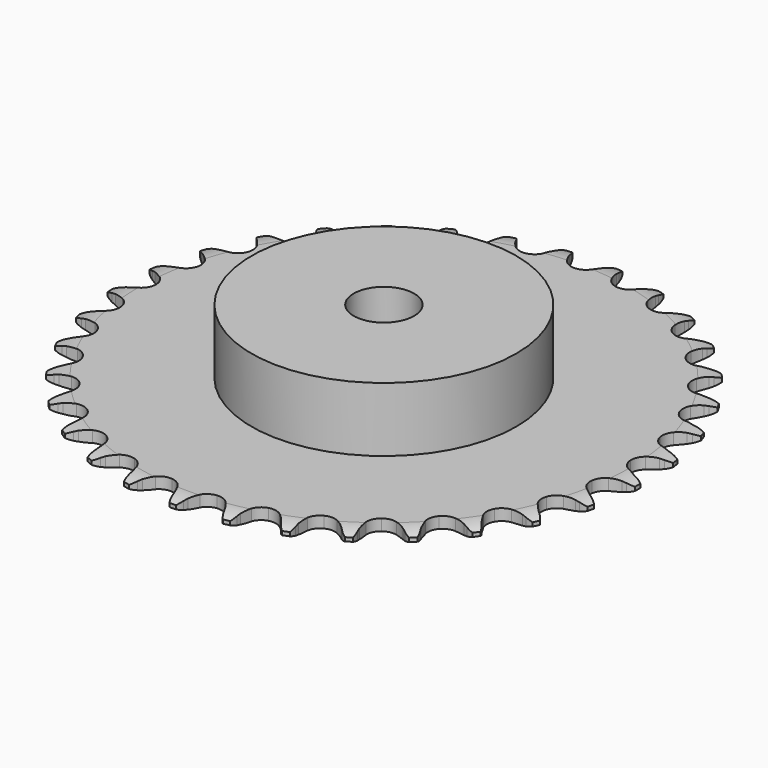
from build123d import *

# Parameters (mm, degrees)
PAD_DEPTH         = 3
SKETCH001_R       = 35
PAD001_DEPTH      = 20
SKETCH002_R       = 8
POCKET_DEPTH      = 0.001
POCKET_DEPTH_BACK = 20.001


with BuildPart() as part:
    # Sprocket → Pad (new body)
    with BuildSketch(Plane.XY):
        with BuildLine():
            ThreePointArc((-6.739751, 70.581868), (-5.654713, 69.397762), (-4.904592, 67.977644))
            Line((-4.904592, 67.977644), (-4.526513, 66.967241))
            ThreePointArc((-4.526513, 66.967241), (-3.927135, 65.657537), (-3.148108, 64.446052))
            ThreePointArc((-3.148108, 64.446052), (-1.760243, 63.286178), (0, 62.870221))
            ThreePointArc((0, 62.870221), (1.760243, 63.286178), (3.148108, 64.446052))
            ThreePointArc((3.148108, 64.446052), (3.927135, 65.657537), (4.526513, 66.967241))
            Line((4.526513, 66.967241), (4.904592, 67.977644))
            ThreePointArc((4.904592, 67.977644), (5.654713, 69.397762), (6.739751, 70.581868))
            ThreePointArc((6.739751, 70.581868), (7.581088, 69.213815), (8.048894, 67.677399))
            Line((8.048894, 67.677399), (8.22892, 66.613704))
            ThreePointArc((8.22892, 66.613704), (8.569604, 65.214235), (9.105278, 63.877211))
            ThreePointArc((9.105278, 63.877211), (10.248554, 62.475642), (11.898268, 61.734075))
            ThreePointArc((11.898268, 61.734075), (13.705422, 61.809386), (15.287714, 62.685644))
            Line((15.287714, 62.685644), (17.118347, 64.900407))
            ThreePointArc((17.118347, 64.900407), (17.387319, 65.368194), (17.680813, 65.820999))
            ThreePointArc((17.680813, 65.820999), (18.686138, 67.073492), (19.975661, 68.030855))
            ThreePointArc((19.975661, 68.030855), (20.542888, 66.528301), (20.711472, 64.931117))
            Line((20.711472, 64.931117), (20.686939, 63.852574))
            ThreePointArc((20.686939, 63.852574), (20.756615, 62.41392), (21.029575, 60.999682))
            ThreePointArc((21.029575, 60.999682), (21.886943, 59.407075), (23.366501, 58.366697))
            ThreePointArc((23.366501, 58.366697), (25.15525, 58.098642), (26.874781, 58.659614))
            Line((26.874781, 58.659614), (29.091479, 60.487904))
            ThreePointArc((29.091479, 60.487904), (29.44412, 60.896334), (29.818004, 61.285412))
            ThreePointArc((29.818004, 61.285412), (31.042197, 62.325012), (32.489599, 63.02103))
            ThreePointArc((32.489599, 63.02103), (32.762215, 61.438281), (32.625484, 59.838056))
            Line((32.625484, 59.838056), (32.397279, 58.783646))
            ThreePointArc((32.397279, 58.783646), (32.193428, 57.357804), (32.193809, 55.917465))
            ThreePointArc((32.193809, 55.917465), (32.73428, 54.19138), (33.990208, 52.889796))
            ThreePointArc((33.990208, 52.889796), (35.695902, 52.288061), (37.490524, 52.513473))
            Line((37.490524, 52.513473), (40.013169, 53.88921))
            ThreePointArc((40.013169, 53.88921), (40.436733, 54.223522), (40.877494, 54.53481))
            ThreePointArc((40.877494, 54.53481), (42.27631, 55.323944), (43.829278, 55.733461))
            ThreePointArc((43.829278, 55.733461), (43.797431, 54.127721), (43.360325, 52.582291))
            Line((43.360325, 52.582291), (42.936696, 51.590123))
            ThreePointArc((42.936696, 51.590123), (42.466687, 50.228628), (42.194475, 48.814245))
            ThreePointArc((42.194475, 48.814245), (42.398515, 47.017068), (43.38542, 45.501319))
            ThreePointArc((43.38542, 45.501319), (44.946411, 44.587654), (46.751261, 44.469358))
            Line((46.751261, 44.469358), (49.488679, 45.34282))
            ThreePointArc((49.488679, 45.34282), (49.967858, 45.59093), (50.459565, 45.813179))
            ThreePointArc((50.459565, 45.813179), (51.982447, 46.323324), (53.584853, 46.431539))
            ThreePointArc((53.584853, 46.431539), (53.249692, 44.860844), (52.528011, 43.426065))
            Line((52.528011, 43.426065), (51.924269, 42.531999))
            ThreePointArc((51.924269, 42.531999), (51.205089, 41.284058), (50.670122, 39.946751))
            ThreePointArc((50.670122, 39.946751), (50.530357, 38.143437), (51.21257, 36.468306))
            ThreePointArc((51.21257, 36.468306), (52.57244, 35.275733), (54.322286, 34.818004))
            Line((54.322286, 34.818004), (57.175539, 35.157622))
            ThreePointArc((57.175539, 35.157622), (57.693014, 35.310563), (58.217896, 35.435739))
            ThreePointArc((58.217896, 35.435739), (59.809803, 35.648458), (61.403731, 35.451461))
            ThreePointArc((61.403731, 35.451461), (60.777372, 33.97258), (59.797199, 32.700308))
            Line((59.797199, 32.700308), (59.035163, 31.936658))
            ThreePointArc((59.035163, 31.936658), (58.092805, 30.847374), (57.314419, 29.635478))
            ThreePointArc((57.314419, 29.635478), (56.835901, 27.891202), (57.188765, 26.117234))
            ThreePointArc((57.188765, 26.117234), (58.298364, 24.688855), (59.929962, 23.908237))
            Line((59.929962, 23.908237), (62.795926, 23.701736))
            ThreePointArc((62.795926, 23.701736), (63.332994, 23.753981), (63.872081, 23.77756))
            ThreePointArc((63.872081, 23.77756), (65.475477, 23.685164), (67.003319, 23.190074))
            ThreePointArc((67.003319, 23.190074), (66.108398, 21.856458), (64.905159, 20.792676))
            Line((64.905159, 20.792676), (64.012373, 20.187043))
            ThreePointArc((64.012373, 20.187043), (62.880897, 19.295786), (61.887224, 18.253101))
            ThreePointArc((61.887224, 18.253101), (61.087247, 16.630907), (61.098008, 14.822216))
            ThreePointArc((61.098008, 14.822216), (61.917233, 13.209657), (63.371613, 12.134364))
            Line((63.371613, 12.134364), (66.146705, 11.389208))
            ThreePointArc((66.146705, 11.389208), (66.683954, 11.338867), (67.217762, 11.259998))
            ThreePointArc((67.217762, 11.259998), (68.774697, 10.865827), (70.181232, 10.090538))
            ThreePointArc((70.181232, 10.090538), (69.050095, 8.950386), (67.667278, 8.133543))
            Line((67.667278, 8.133543), (66.676009, 7.707816))
            ThreePointArc((66.676009, 7.707816), (65.396308, 7.046798), (64.223263, 6.211009))
            ThreePointArc((64.223263, 6.211009), (63.13074, 4.769527), (62.799011, 2.991486))
            ThreePointArc((62.799011, 2.991486), (63.298252, 1.253028), (64.522849, -0.078076))
            Line((64.522849, -0.078076), (67.10677, -1.334957))
            ThreePointArc((67.10677, -1.334957), (67.624783, -1.486062), (68.134018, -1.66453))
            ThreePointArc((68.134018, -1.66453), (69.58822, -2.34623), (70.822613, -3.373697))
            ThreePointArc((70.822613, -3.373697), (69.496142, -4.279175), (67.983726, -4.819557))
            Line((67.983726, -4.819557), (66.929801, -5.049992))
            ThreePointArc((66.929801, -5.049992), (65.548127, -5.456879), (64.238107, -6.055564))
            ThreePointArc((64.238107, -6.055564), (62.892525, -7.264235), (62.230293, -8.947365))
            ThreePointArc((62.230293, -8.947365), (62.391507, -10.748889), (63.342062, -12.287695))
            Line((63.342062, -12.287695), (65.641421, -14.010872))
            ThreePointArc((65.641421, -14.010872), (66.121476, -14.257281), (66.587733, -14.528898))
            ThreePointArc((66.587733, -14.528898), (67.886643, -15.473487), (68.90428, -16.715997))
            ThreePointArc((68.90428, -16.715997), (67.430417, -17.354076), (65.843064, -17.598466))
            Line((65.843064, -17.598466), (64.764575, -17.62528))
            ThreePointArc((64.764575, -17.62528), (63.330866, -17.763331), (61.931217, -18.103274))
            ThreePointArc((61.931217, -18.103274), (60.381209, -19.03545), (59.412411, -20.562835))
            ThreePointArc((59.412411, -20.562835), (59.229771, -22.362313), (59.871926, -24.053204))
            Line((59.871926, -24.053204), (61.80362, -26.180398))
            ThreePointArc((61.80362, -26.180398), (62.228367, -26.513205), (62.634794, -26.868153))
            ThreePointArc((62.634794, -26.868153), (63.731466, -28.041493), (64.495566, -29.454138))
            ThreePointArc((64.495566, -29.454138), (62.927581, -29.801756), (61.322662, -29.741321))
            Line((61.322662, -29.741321), (60.258588, -29.563545))
            ThreePointArc((60.258588, -29.563545), (58.824662, -29.42777), (57.385972, -29.496684))
            ThreePointArc((57.385972, -29.496684), (55.687559, -30.118673), (54.447209, -31.435111))
            ThreePointArc((54.447209, -31.435111), (53.927316, -33.167505), (54.237864, -34.949368))
            Line((54.237864, -34.949368), (55.732075, -37.403696))
            ThreePointArc((55.732075, -37.403696), (56.086162, -37.810873), (56.41807, -38.236323))
            ThreePointArc((56.41807, -38.236323), (57.272868, -39.596006), (57.755815, -41.12773))
            ThreePointArc((57.755815, -41.12773), (56.150378, -41.172322), (54.5859, -40.809246))
            Line((54.5859, -40.809246), (53.574699, -40.433306))
            ThreePointArc((53.574699, -40.433306), (52.192382, -40.028612), (50.766649, -39.824007))
            ThreePointArc((50.766649, -39.824007), (48.981216, -40.11333), (47.514143, -41.171239))
            ThreePointArc((47.514143, -41.171239), (46.675788, -42.773936), (46.643504, -44.58237))
            Line((46.643504, -44.58237), (47.646228, -47.275127))
            ThreePointArc((47.646228, -47.275127), (47.916857, -47.741957), (48.162251, -48.222533))
            ThreePointArc((48.162251, -48.222533), (48.744279, -49.719416), (48.928618, -51.314858))
            ThreePointArc((48.928618, -51.314858), (47.343754, -51.054814), (45.876261, -50.40222))
            Line((45.876261, -50.40222), (44.954481, -49.841702))
            ThreePointArc((44.954481, -49.841702), (43.673733, -49.182716), (42.312486, -48.711987))
            ThreePointArc((42.312486, -48.711987), (40.504564, -48.658186), (38.863792, -49.419332))
            ThreePointArc((38.863792, -49.419332), (37.737275, -50.834406), (37.363326, -52.60405))
            Line((37.363326, -52.60405), (37.838322, -55.437912))
            ThreePointArc((37.838322, -55.437912), (38.015712, -55.947523), (38.165722, -56.465855))
            ThreePointArc((38.165722, -56.465855), (38.453945, -58.045837), (38.333014, -59.647333))
            ThreePointArc((38.333014, -59.647333), (36.826004, -59.092051), (35.508534, -58.173525))
            Line((35.508534, -58.173525), (34.709491, -57.448689))
            ThreePointArc((34.709491, -57.448689), (33.576602, -56.559229), (32.329041, -55.839389))
            ThreePointArc((32.329041, -55.839389), (30.563972, -55.444408), (28.808803, -55.881281))
            ThreePointArc((28.808803, -55.881281), (27.434838, -57.057589), (26.73274, -58.724482))
            Line((26.73274, -58.724482), (26.66284, -61.597026))
            ThreePointArc((26.66284, -61.597026), (26.740581, -62.130999), (26.789784, -62.668354))
            ThreePointArc((26.789784, -62.668354), (26.773786, -64.27433), (26.351954, -65.823999))
            ThreePointArc((26.351954, -65.823999), (24.977266, -64.993548), (23.857437, -63.842288))
            Line((23.857437, -63.842288), (23.21001, -62.979331))
            ThreePointArc((23.21001, -62.979331), (22.265924, -61.891543), (21.177139, -60.948609))
            ThreePointArc((21.177139, -60.948609), (19.518718, -60.226725), (17.712588, -60.323536))
            ThreePointArc((17.712588, -60.323536), (16.140835, -61.218561), (15.135963, -62.722459))
            Line((15.135963, -62.722459), (14.523694, -65.529863))
            ThreePointArc((14.523694, -65.529863), (14.498975, -66.068899), (14.445594, -66.605855))
            ThreePointArc((14.445594, -66.605855), (14.125952, -68.179781), (13.418466, -69.621614))
            ThreePointArc((13.418466, -69.621614), (12.225785, -68.546009), (11.344069, -67.203625))
            Line((11.344069, -67.203625), (10.871658, -66.233735))
            ThreePointArc((10.871658, -66.233735), (10.150499, -64.986936), (9.25984, -63.854988))
            ThreePointArc((9.25984, -63.854988), (7.768007, -62.832291), (5.976194, -62.58554))
            ThreePointArc((5.976194, -62.58554), (4.263461, -63.166935), (2.992133, -64.453482))
            Line((2.992133, -64.453482), (1.859624, -67.09428))
            ThreePointArc((1.859624, -67.09428), (1.733338, -67.618897), (1.579302, -68.136047))
            ThreePointArc((1.579302, -68.136047), (0.967569, -69.621038), (0, -70.902922))
            ThreePointArc((0, -70.902922), (-0.967569, -69.621038), (-1.579302, -68.136047))
            Line((-1.579302, -68.136047), (-1.859624, -67.09428))
            ThreePointArc((-1.859624, -67.09428), (-2.331793, -65.733532), (-2.992133, -64.453482))
            ThreePointArc((-2.992133, -64.453482), (-4.263461, -63.166935), (-5.976194, -62.58554))
            ThreePointArc((-5.976194, -62.58554), (-7.768007, -62.832291), (-9.25984, -63.854988))
            Line((-9.25984, -63.854988), (-10.871658, -66.233735))
            ThreePointArc((-10.871658, -66.233735), (-11.094946, -66.724972), (-11.344069, -67.203625))
            ThreePointArc((-11.344069, -67.203625), (-12.225785, -68.546009), (-13.418466, -69.621614))
            ThreePointArc((-13.418466, -69.621614), (-14.125952, -68.179781), (-14.445594, -66.605855))
            Line((-14.445594, -66.605855), (-14.523694, -65.529863))
            ThreePointArc((-14.523694, -65.529863), (-14.729807, -64.104347), (-15.135963, -62.722459))
            ThreePointArc((-15.135963, -62.722459), (-16.140835, -61.218561), (-17.712588, -60.323536))
            ThreePointArc((-17.712588, -60.323536), (-19.518718, -60.226725), (-21.177139, -60.948609))
            Line((-21.177139, -60.948609), (-23.21001, -62.979331))
            ThreePointArc((-23.21001, -62.979331), (-23.52223, -63.419432), (-23.857437, -63.842288))
            ThreePointArc((-23.857437, -63.842288), (-24.977266, -64.993548), (-26.351954, -65.823999))
            ThreePointArc((-26.351954, -65.823999), (-26.773786, -64.27433), (-26.789784, -62.668354))
            Line((-26.789784, -62.668354), (-26.66284, -61.597026))
            ThreePointArc((-26.66284, -61.597026), (-26.595448, -60.158264), (-26.73274, -58.724482))
            ThreePointArc((-26.73274, -58.724482), (-27.434838, -57.057589), (-28.808803, -55.881281))
            ThreePointArc((-28.808803, -55.881281), (-30.563972, -55.444408), (-32.329041, -55.839389))
            Line((-32.329041, -55.839389), (-34.709491, -57.448689))
            ThreePointArc((-34.709491, -57.448689), (-35.099359, -57.821749), (-35.508534, -58.173525))
            ThreePointArc((-35.508534, -58.173525), (-36.826004, -59.092051), (-38.333014, -59.647333))
            ThreePointArc((-38.333014, -59.647333), (-38.453945, -58.045837), (-38.165722, -56.465855))
            Line((-38.165722, -56.465855), (-37.838322, -55.437912))
            ThreePointArc((-37.838322, -55.437912), (-37.49986, -54.037904), (-37.363326, -52.60405))
            ThreePointArc((-37.363326, -52.60405), (-37.737275, -50.834406), (-38.863792, -49.419332))
            ThreePointArc((-38.863792, -49.419332), (-40.504564, -48.658186), (-42.312486, -48.711987))
            Line((-42.312486, -48.711987), (-44.954481, -49.841702))
            ThreePointArc((-44.954481, -49.841702), (-45.407906, -50.134238), (-45.876261, -50.40222))
            ThreePointArc((-45.876261, -50.40222), (-47.343754, -51.054814), (-48.928618, -51.314858))
            ThreePointArc((-48.928618, -51.314858), (-48.744279, -49.719416), (-48.162251, -48.222533))
            Line((-48.162251, -48.222533), (-47.646228, -47.275127))
            ThreePointArc((-47.646228, -47.275127), (-47.048929, -45.964473), (-46.643504, -44.58237))
            ThreePointArc((-46.643504, -44.58237), (-46.675788, -42.773936), (-47.514143, -41.171239))
            ThreePointArc((-47.514143, -41.171239), (-48.981216, -40.11333), (-50.766649, -39.824007))
            Line((-50.766649, -39.824007), (-53.574699, -40.433306))
            ThreePointArc((-53.574699, -40.433306), (-54.075293, -40.634744), (-54.5859, -40.809246))
            ThreePointArc((-54.5859, -40.809246), (-56.150378, -41.172322), (-57.755815, -41.12773))
            ThreePointArc((-57.755815, -41.12773), (-57.272868, -39.596006), (-56.41807, -38.236323))
            Line((-56.41807, -38.236323), (-55.732075, -37.403696))
            ThreePointArc((-55.732075, -37.403696), (-54.897527, -36.229767), (-54.237864, -34.949368))
            ThreePointArc((-54.237864, -34.949368), (-53.927316, -33.167505), (-54.447209, -31.435111))
            ThreePointArc((-54.447209, -31.435111), (-55.687559, -30.118673), (-57.385972, -29.496684))
            Line((-57.385972, -29.496684), (-60.258588, -29.563545))
            ThreePointArc((-60.258588, -29.563545), (-60.788258, -29.666605), (-61.322662, -29.741321))
            ThreePointArc((-61.322662, -29.741321), (-62.927581, -29.801756), (-64.495566, -29.454138))
            ThreePointArc((-64.495566, -29.454138), (-63.731466, -28.041493), (-62.634794, -26.868153))
            Line((-62.634794, -26.868153), (-61.80362, -26.180398))
            ThreePointArc((-61.80362, -26.180398), (-60.761986, -25.185623), (-59.871926, -24.053204))
            ThreePointArc((-59.871926, -24.053204), (-59.229771, -22.362313), (-59.412411, -20.562835))
            ThreePointArc((-59.412411, -20.562835), (-60.381209, -19.03545), (-61.931217, -18.103274))
            Line((-61.931217, -18.103274), (-64.764575, -17.62528))
            ThreePointArc((-64.764575, -17.62528), (-65.304176, -17.626237), (-65.843064, -17.598466))
            ThreePointArc((-65.843064, -17.598466), (-67.430417, -17.354076), (-68.90428, -16.715997))
            ThreePointArc((-68.90428, -16.715997), (-67.886643, -15.473487), (-66.587733, -14.528898))
            Line((-66.587733, -14.528898), (-65.641421, -14.010872))
            ThreePointArc((-65.641421, -14.010872), (-64.430348, -13.231204), (-63.342062, -12.287695))
            ThreePointArc((-63.342062, -12.287695), (-62.391507, -10.748889), (-62.230293, -8.947365))
            ThreePointArc((-62.230293, -8.947365), (-62.892525, -7.264235), (-64.238107, -6.055564))
            Line((-64.238107, -6.055564), (-66.929801, -5.049992))
            ThreePointArc((-66.929801, -5.049992), (-67.459832, -4.948811), (-67.983726, -4.819557))
            ThreePointArc((-67.983726, -4.819557), (-69.496142, -4.279175), (-70.822613, -3.373697))
            ThreePointArc((-70.822613, -3.373697), (-69.58822, -2.34623), (-68.134018, -1.66453))
            Line((-68.134018, -1.66453), (-67.10677, -1.334957))
            ThreePointArc((-67.10677, -1.334957), (-65.77003, -0.798576), (-64.522849, -0.078076))
            ThreePointArc((-64.522849, -0.078076), (-63.298252, 1.253028), (-62.799011, 2.991486))
            ThreePointArc((-62.799011, 2.991486), (-63.13074, 4.769527), (-64.223263, 6.211009))
            Line((-64.223263, 6.211009), (-66.676009, 7.707816))
            ThreePointArc((-66.676009, 7.707816), (-67.177314, 7.907477), (-67.667278, 8.133543))
            ThreePointArc((-67.667278, 8.133543), (-69.050095, 8.950386), (-70.181232, 10.090538))
            ThreePointArc((-70.181232, 10.090538), (-68.774697, 10.865827), (-67.217762, 11.259998))
            Line((-67.217762, 11.259998), (-66.146705, 11.389208))
            ThreePointArc((-66.146705, 11.389208), (-64.732611, 11.662916), (-63.371613, 12.134364))
            ThreePointArc((-63.371613, 12.134364), (-61.917233, 13.209657), (-61.098008, 14.822216))
            ThreePointArc((-61.098008, 14.822216), (-61.087247, 16.630907), (-61.887224, 18.253101))
            Line((-61.887224, 18.253101), (-64.012373, 20.187043))
            ThreePointArc((-64.012373, 20.187043), (-64.466832, 20.477969), (-64.905159, 20.792676))
            ThreePointArc((-64.905159, 20.792676), (-66.108398, 21.856458), (-67.003319, 23.190074))
            ThreePointArc((-67.003319, 23.190074), (-65.475477, 23.685164), (-63.872081, 23.77756))
            Line((-63.872081, 23.77756), (-62.795926, 23.701736))
            ThreePointArc((-62.795926, 23.701736), (-61.355587, 23.702879), (-59.929962, 23.908237))
            ThreePointArc((-59.929962, 23.908237), (-58.298364, 24.688855), (-57.188765, 26.117234))
            ThreePointArc((-57.188765, 26.117234), (-56.835901, 27.891202), (-57.314419, 29.635478))
            Line((-57.314419, 29.635478), (-59.035163, 31.936658))
            ThreePointArc((-59.035163, 31.936658), (-59.426352, 32.308334), (-59.797199, 32.700308))
            ThreePointArc((-59.797199, 32.700308), (-60.777372, 33.97258), (-61.403731, 35.451461))
            ThreePointArc((-61.403731, 35.451461), (-59.809803, 35.648458), (-58.217896, 35.435739))
            Line((-58.217896, 35.435739), (-57.175539, 35.157622))
            ThreePointArc((-57.175539, 35.157622), (-55.761012, 34.886158), (-54.322286, 34.818004))
            ThreePointArc((-54.322286, 34.818004), (-52.57244, 35.275733), (-51.21257, 36.468306))
            ThreePointArc((-51.21257, 36.468306), (-50.530357, 38.143437), (-50.670122, 39.946751))
            Line((-50.670122, 39.946751), (-51.924269, 42.531999))
            ThreePointArc((-51.924269, 42.531999), (-52.238048, 42.970991), (-52.528011, 43.426065))
            ThreePointArc((-52.528011, 43.426065), (-53.249692, 44.860844), (-53.584853, 46.431539))
            ThreePointArc((-53.584853, 46.431539), (-51.982447, 46.323324), (-50.459565, 45.813179))
            Line((-50.459565, 45.813179), (-49.488679, 45.34282))
            ThreePointArc((-49.488679, 45.34282), (-48.15109, 44.808561), (-46.751261, 44.469358))
            ThreePointArc((-46.751261, 44.469358), (-44.946411, 44.587654), (-43.38542, 45.501319))
            ThreePointArc((-43.38542, 45.501319), (-42.398515, 47.017068), (-42.194475, 48.814245))
            Line((-42.194475, 48.814245), (-42.936696, 51.590123))
            ThreePointArc((-42.936696, 51.590123), (-43.161724, 52.080565), (-43.360325, 52.582291))
            ThreePointArc((-43.360325, 52.582291), (-43.797431, 54.127721), (-43.829278, 55.733461))
            ThreePointArc((-43.829278, 55.733461), (-42.27631, 55.323944), (-40.877494, 54.53481))
            Line((-40.877494, 54.53481), (-40.013169, 53.88921))
            ThreePointArc((-40.013169, 53.88921), (-38.800861, 53.111465), (-37.490524, 52.513473))
            ThreePointArc((-37.490524, 52.513473), (-35.695902, 52.288061), (-33.990208, 52.889796))
            ThreePointArc((-33.990208, 52.889796), (-32.73428, 54.19138), (-32.193809, 55.917465))
            Line((-32.193809, 55.917465), (-32.397279, 58.783646))
            ThreePointArc((-32.397279, 58.783646), (-32.525424, 59.307811), (-32.625484, 59.838056))
            ThreePointArc((-32.625484, 59.838056), (-32.762215, 61.438281), (-32.489599, 63.02103))
            ThreePointArc((-32.489599, 63.02103), (-31.042197, 62.325012), (-29.818004, 61.285412))
            Line((-29.818004, 61.285412), (-29.091479, 60.487904))
            ThreePointArc((-29.091479, 60.487904), (-28.048268, 59.494783), (-26.874781, 58.659614))
            ThreePointArc((-26.874781, 58.659614), (-25.15525, 58.098642), (-23.366501, 58.366697))
            ThreePointArc((-23.366501, 58.366697), (-21.886943, 59.407075), (-21.029575, 60.999682))
            Line((-21.029575, 60.999682), (-20.686939, 63.852574))
            ThreePointArc((-20.686939, 63.852574), (-20.71357, 64.391519), (-20.711472, 64.931117))
            ThreePointArc((-20.711472, 64.931117), (-20.542888, 66.528301), (-19.975661, 68.030855))
            ThreePointArc((-19.975661, 68.030855), (-18.686138, 67.073492), (-17.680813, 65.820999))
            Line((-17.680813, 65.820999), (-17.118347, 64.900407))
            ThreePointArc((-17.118347, 64.900407), (-16.281937, 63.727804), (-15.287714, 62.685644))
            ThreePointArc((-15.287714, 62.685644), (-13.705422, 61.809386), (-11.898268, 61.734075))
            ThreePointArc((-11.898268, 61.734075), (-10.248554, 62.475642), (-9.105278, 63.877211))
            Line((-9.105278, 63.877211), (-8.22892, 66.613704))
            ThreePointArc((-8.22892, 66.613704), (-8.153074, 67.147949), (-8.048894, 67.677399))
            ThreePointArc((-8.048894, 67.677399), (-7.581088, 69.213815), (-6.739751, 70.581868))
        make_face()
    extrude(amount=PAD_DEPTH)

    # Sketch → Groove (revolve, cut)
    with BuildSketch(Plane.XZ):
        with BuildLine():
            Line((64.8, 0), (69.8, 0))
            Line((74.8, 0), (69.8, 0))
            Line((74.8, 3), (74.8, 0))
            Line((69.8, 3), (74.8, 3))
            Line((64.8, 3), (69.8, 3))
            ThreePointArc((69.8, 2), (67.34951, 2.747549), (64.8, 3))
            Line((69.8, 1), (69.8, 2))
            ThreePointArc((64.8, 0), (67.34951, 0.252451), (69.8, 1))
        make_face()
    revolve(axis=Axis((0, 0, 0), (0, 0, 1)), mode=Mode.SUBTRACT)

    # Sketch001 → Pad001 (join)
    with BuildSketch(Plane.XY):
        Circle(SKETCH001_R)
    extrude(amount=PAD001_DEPTH)

    # Sketch002 → Pocket (cut, two sides)
    with BuildSketch(Plane.XY) as pocket_sk:
        Circle(SKETCH002_R)
    extrude(amount=-POCKET_DEPTH, mode=Mode.SUBTRACT)
    extrude(pocket_sk.sketch, amount=POCKET_DEPTH_BACK, mode=Mode.SUBTRACT)


solid = part.part
